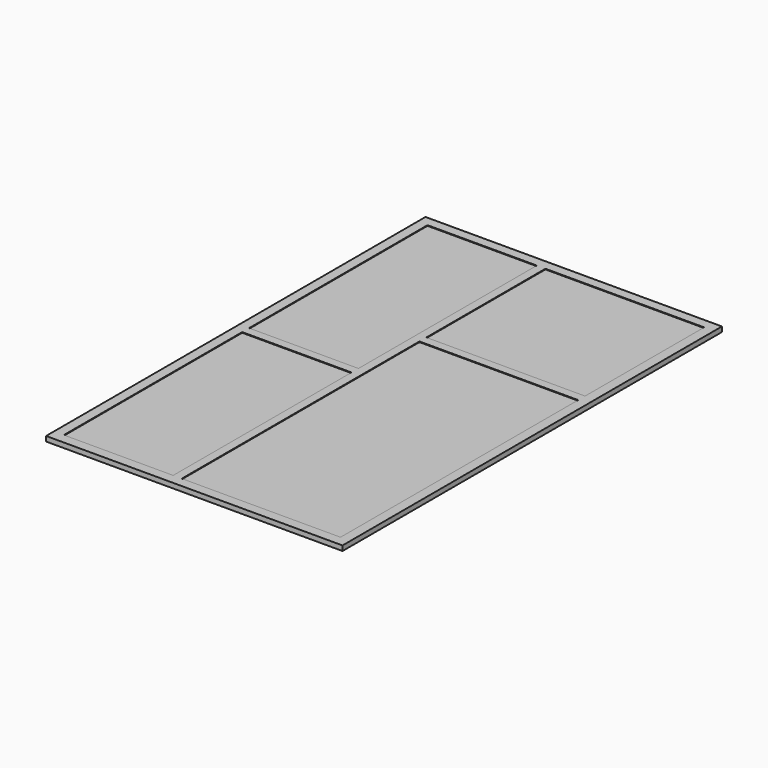
from build123d import *

# Parameters (mm, degrees)
F0_W      = 762
F0_H      = 1219.2
F1_DEPTH  = 12.7
F3_W      = 407.9875
F3_H      = 763.5875
F4_DEPTH  = 1.5875
F6_W      = 407.9875
F6_H      = 382.5875
F7_DEPTH  = 1.5875
F9_W      = 280.9875
F9_H      = 573.0875
F10_DEPTH = 1.5875
F12_W     = 280.9875
F12_H     = 573.0875
F13_DEPTH = 1.5875


with BuildPart() as f1:
    # F0 (on Top) → F1 (new body)
    with BuildSketch(Plane.XY):
        Rectangle(F0_W, F0_H)
    extrude(amount=F1_DEPTH)

    # F3 (on face) → F4 (cut)
    with BuildSketch(Plane.XY.offset(12.7)):
        with Locations((151.617306, -202.399241)):
            Rectangle(F3_W, F3_H)
    extrude(amount=-F4_DEPTH, mode=Mode.SUBTRACT)

    # F6 (on face) → F7 (cut)
    with BuildSketch(Plane.XY.offset(12.7)):
        with Locations((151.60625, 392.90625)):
            Rectangle(F6_W, F6_H)
    extrude(amount=-F7_DEPTH, mode=Mode.SUBTRACT)

    # F9 (on face) → F10 (cut)
    with BuildSketch(Plane.XY.offset(12.7)):
        with Locations((-215.10625, -297.65625)):
            Rectangle(F9_W, F9_H)
    extrude(amount=-F10_DEPTH, mode=Mode.SUBTRACT)

    # F12 (on face) → F13 (cut)
    with BuildSketch(Plane.XY.offset(12.7)):
        with Locations((-215.10625, 297.65625)):
            Rectangle(F12_W, F12_H)
    extrude(amount=-F13_DEPTH, mode=Mode.SUBTRACT)


solid = f1.part
